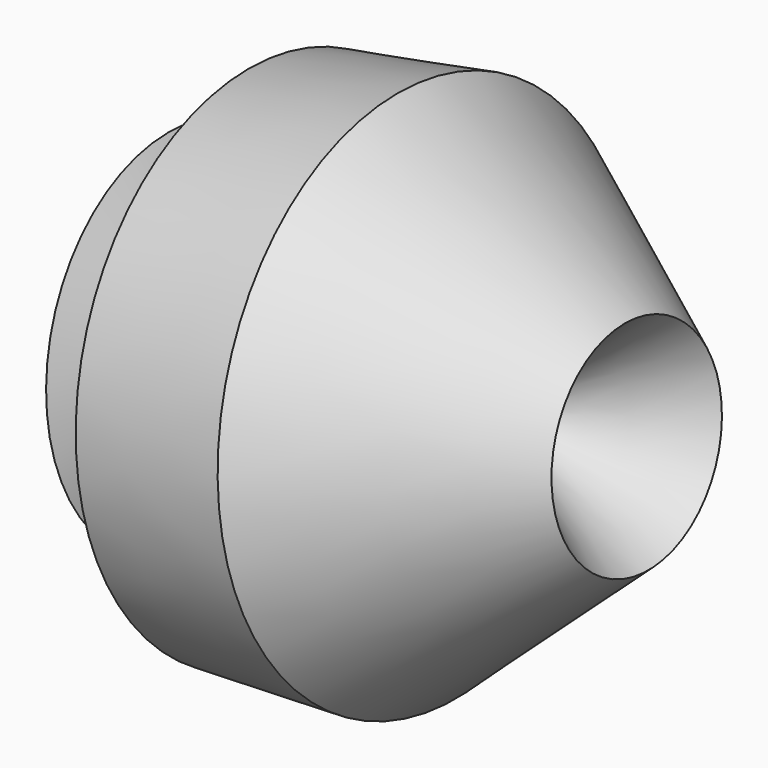
from build123d import *


with BuildPart() as f1:
    # F0 (on Front) → F1 (revolve)
    with BuildSketch(Plane.XZ):
        Polygon((-67.0393481851, -4.226393532), (-42.2639362514, -34.2483595014), (38.1832793355, -25.212623179), (-13.1163932383, 31.6250808537), (-35.8514748514, 42.9926253855), (-38.7662313879, 17.9257374257), (-19.9521857218, 0), (-27.3986887187, -4.226393532), (-21.2777052075, -15.0109836832), (-21.2777052075, -25.212623179), (-31.7708216608, -25.212623179), (-35.8514748514, -10.9303286299), (-48.0934418738, -4.226393532), (-60.3354126215, 17.9257374257), align=None)
        Polygon((-13.1163932383, 31.6250808537), (38.1832793355, -25.212623179), (78.9898335934, 11.8047548458), (9.6186883748, 51.153935492), (-35.8514748514, 42.9926253855), align=None)
    revolve(axis=Axis((-2.040328458, 0, -29.7304913402), (0.9937513025, 0, 0.1116169736)))


solid = f1.part
